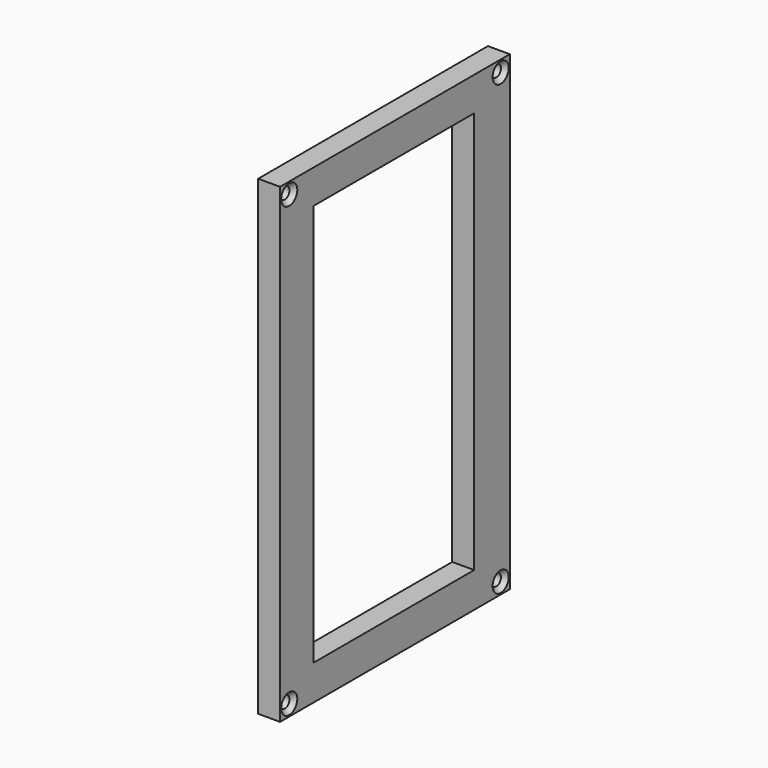
from build123d import *

# Parameters (mm, degrees)
F0_W           = 50
F0_H           = 82
F0_W_2         = 35
F0_H_2         = 70
F1_DEPTH       = 3.81
F3_D           = 2
F3_DEPTH       = 50.8
F3_CSINK_D     = 3.5
F3_CSINK_ANGLE = 90


with BuildPart() as f1:
    # F0 (on Right) → F1 (new body)
    with BuildSketch(Plane.YZ):
        with Locations((-0.991207, 6.902988)):
            Rectangle(F0_W, F0_H)
        with Locations((-1.261404, 7.01166)):
            Rectangle(F0_W_2, F0_H_2, mode=Mode.SUBTRACT)
    extrude(amount=F1_DEPTH)

    # F3
    with Locations(Plane.YZ.offset(3.81)):
        with Locations((-23.991207, 45.902988), (22.008793, 45.902988), (22.008793, -32.097012), (-23.991207, -32.097012)):
            CounterSinkHole(F3_D / 2, F3_CSINK_D / 2, depth=F3_DEPTH, counter_sink_angle=F3_CSINK_ANGLE)


solid = f1.part
